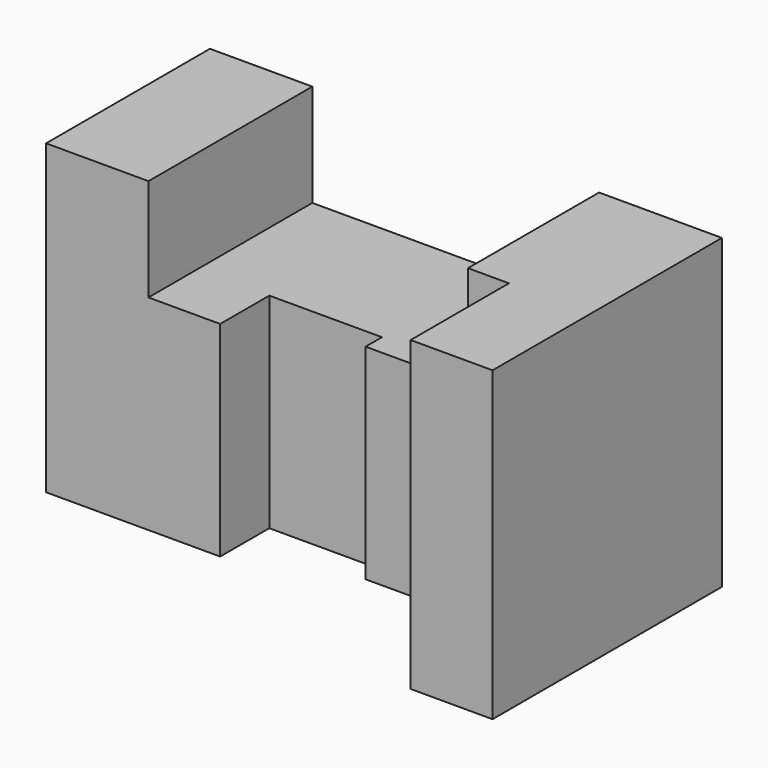
from build123d import *

# Parameters (mm, degrees)
F0_W     = 125
F0_H     = 75
F1_DEPTH = 70
F2_W     = 70
F2_H     = 25
F3_DEPTH = 70.001
F5_DEPTH = 75.001


with BuildPart() as f1:
    # F0 (on Front) → F1 (new body)
    with BuildSketch(Plane.XZ):
        with Locations((62.5, 37.5)):
            Rectangle(F0_W, F0_H)
    extrude(amount=F1_DEPTH)

    # F2 (on face) → F3 (cut, through all)
    with BuildSketch(Plane.XZ.offset(70)):
        with Locations((60, 62.5)):
            Rectangle(F2_W, F2_H)
    extrude(amount=-F3_DEPTH, mode=Mode.SUBTRACT)

    # F4 (on Top) → F5 (cut, through all)
    with BuildSketch(Plane.XY):
        Polygon((0, -50), (0, -70), (70, -70), (105, -70), (105, -40), (70, -40), (70, -35), (42.5, -35), (42.5, -50), align=None)
    extrude(amount=F5_DEPTH, mode=Mode.SUBTRACT)


solid = f1.part
